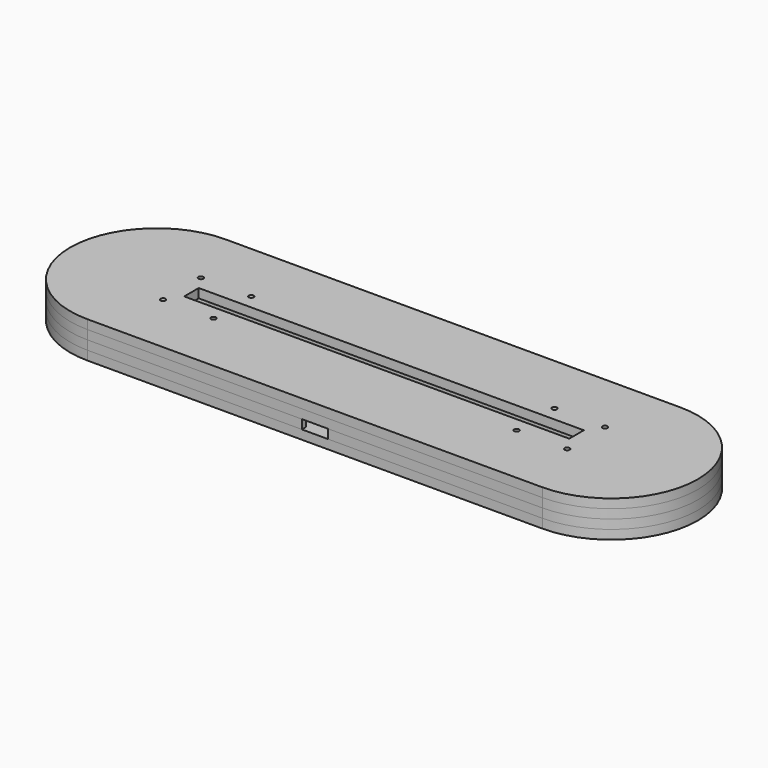
from build123d import *

# Parameters (mm, degrees)
BOX_BOTTOM_HALF_1_W     = 209
BOX_BOTTOM_HALF_1_H     = 59
BOX_BOTTOM_HALF_1_DEPTH = 4
BOX_BOTTOM_HALF_0_W     = 209
BOX_BOTTOM_HALF_0_H     = 59
BOX_BOTTOM_HALF_0_DEPTH = 7
PAD_DEPTH               = 6
POCKET_DEPTH            = 3
SKETCH002_W             = 18.4
SKETCH002_H             = 20.85
POCKET001_DEPTH         = 3
SKETCH003_W             = 8.55
SKETCH003_H             = 1.65
POCKET002_DEPTH         = 3
PAD001_DEPTH            = 3
SKETCH005_W             = 127
SKETCH005_H             = 6
PAD002_DEPTH            = 3
SKETCH006_R             = 0.825
POCKET003_DEPTH         = 442.080062
POLARPATTERN_COUNT      = 2
POLARPATTERN001_COUNT   = 2
POLARPATTERN002_COUNT   = 2
BOX_BOTTOM_HALF_2_W     = 209
BOX_BOTTOM_HALF_2_H     = 59
BOX_BOTTOM_HALF_2_DEPTH = 4


with BuildPart() as box_bottom_half_1_body:
    # box_bottom_half_1 → box_bottom_half_1 (new body)
    with BuildSketch(Plane(origin=(-104.5, -29.5, -1), x_dir=(1, 0, 0), z_dir=(0, 0, 1))):
        with Locations((104.5, 29.5)):
            Rectangle(BOX_BOTTOM_HALF_1_W, BOX_BOTTOM_HALF_1_H)
    extrude(amount=BOX_BOTTOM_HALF_1_DEPTH)


with BuildPart() as box_bottom_half_0_body:
    # box_bottom_half_0 → box_bottom_half_0 (new body)
    with BuildSketch(Plane(origin=(-104.5, -29.5, -1), x_dir=(1, 0, 0), z_dir=(0, 0, 1))):
        with Locations((104.5, 29.5)):
            Rectangle(BOX_BOTTOM_HALF_0_W, BOX_BOTTOM_HALF_0_H)
    extrude(amount=BOX_BOTTOM_HALF_0_DEPTH)


with BuildPart() as body:
    # Sketch → Pad (new body)
    with BuildSketch(Plane.XY):
        with BuildLine():
            ThreePointArc((-75, 28.5), (-103.5, 0), (-75, -28.5))
            Line((-75, -28.5), (75, -28.5))
            ThreePointArc((75, -28.5), (103.5, 0), (75, 28.5))
            Line((-75, 28.5), (75, 28.5))
        make_face()
    extrude(amount=PAD_DEPTH)

    # Sketch001 (on Face6 of Pad) → Pocket (cut)
    with BuildSketch(Plane.XY.offset(6)):
        with BuildLine():
            ThreePointArc((-62.5, 6), (-68.5, 0), (-62.5, -6))
            Line((-62.5, -6), (62.5, -6))
            ThreePointArc((62.5, -6), (68.5, 0), (62.5, 6))
            Line((-62.5, 6), (62.5, 6))
        make_face()
    extrude(amount=-POCKET_DEPTH, mode=Mode.SUBTRACT)

    # Sketch002 (on Face5 of Pocket) → Pocket001 (cut)
    with BuildSketch(Plane.XY.offset(6)):
        with Locations((0, -16.425)):
            Rectangle(SKETCH002_W, SKETCH002_H)
    extrude(amount=-POCKET001_DEPTH, mode=Mode.SUBTRACT)

    # Sketch003 (on Face5 of Pocket001) → Pocket002 (cut)
    with BuildSketch(Plane.XY.offset(6)):
        with Locations((0, -27.675)):
            Rectangle(SKETCH003_W, SKETCH003_H)
    extrude(amount=-POCKET002_DEPTH, mode=Mode.SUBTRACT)

    # Sketch004 (on Face5 of Pocket002) → Pad001 (join)
    with BuildSketch(Plane.XY.offset(6)):
        with BuildLine():
            ThreePointArc((-75, 28.5), (-103.5, 0), (-75, -28.5))
            Line((-75, -28.5), (75, -28.5))
            ThreePointArc((75, -28.5), (103.5, 0), (75, 28.5))
            Line((-75, 28.5), (75, 28.5))
        make_face()
        with BuildLine():
            ThreePointArc((-62.5, 6), (-68.5, 0), (-62.5, -6))
            Line((-62.5, -6), (62.5, -6))
            ThreePointArc((62.5, -6), (68.5, 0), (62.5, 6))
            Line((-62.5, 6), (62.5, 6))
        make_face(mode=Mode.SUBTRACT)
    extrude(amount=PAD001_DEPTH)

    # Sketch005 (on Face12 of Pad001) → Pad002 (join)
    with BuildSketch(Plane.XY.offset(9)):
        with BuildLine():
            ThreePointArc((-75, 28.5), (-103.5, 0), (-75, -28.5))
            Line((-75, -28.5), (75, -28.5))
            ThreePointArc((75, -28.5), (103.5, 0), (75, 28.5))
            Line((-75, 28.5), (75, 28.5))
        make_face()
        Rectangle(SKETCH005_W, SKETCH005_H, mode=Mode.SUBTRACT)
    extrude(amount=PAD002_DEPTH)

    # Sketch006 (on Face20 of Pad002) → Pocket003 (cut, through all)
    with BuildSketch(Plane.XY.offset(12)):
        with Locations((-66.64, -7.79)):
            Circle(SKETCH006_R)
        with Locations((-50, -7.79)):
            Circle(SKETCH006_R)
    pocket003 = extrude(amount=-POCKET003_DEPTH, mode=Mode.SUBTRACT)

    # PolarPattern: Pocket003 ×2 about axis
    polarpattern_axis = Axis((0, 0, 12), (0, 0, 1))
    for i in range(1, POLARPATTERN_COUNT):
        add(pocket003.rotate(polarpattern_axis, i * 360 / POLARPATTERN_COUNT), mode=Mode.SUBTRACT)

    # PolarPattern001: Pocket003 ×2 about axis
    polarpattern001_axis = Axis((0, 0, 0), (0, 1, 0))
    for i in range(1, POLARPATTERN001_COUNT):
        add(pocket003.rotate(polarpattern001_axis, i * 360 / POLARPATTERN001_COUNT), mode=Mode.SUBTRACT)

    # PolarPattern002: Pocket003 ×2 about axis
    polarpattern002_axis = Axis((0, 0, 0), (-1, 0, 0))
    for i in range(1, POLARPATTERN002_COUNT):
        add(pocket003.rotate(polarpattern002_axis, i * 360 / POLARPATTERN002_COUNT), mode=Mode.SUBTRACT)


with BuildPart() as bottom_half_0_body:
    # bottom_half_0 base: copy of Body
    add(body.part)

    # bottom_half_0: intersect box_bottom_half_0 body
    add(box_bottom_half_0_body.part, mode=Mode.INTERSECT)


with BuildPart() as bottom_half_1_body:
    # bottom_half_1 base: copy of bottom_half_0 body
    add(bottom_half_0_body.part)

    # bottom_half_1: intersect box_bottom_half_1 body
    add(box_bottom_half_1_body.part, mode=Mode.INTERSECT)


with BuildPart() as top_half_1_body:
    # top_half_1 base: copy of bottom_half_0 body
    add(bottom_half_0_body.part)

    # top_half_1: cut box_bottom_half_1 body
    add(box_bottom_half_1_body.part, mode=Mode.SUBTRACT)


with BuildPart() as box_bottom_half_2_body:
    # box_bottom_half_2 → box_bottom_half_2 (new body)
    with BuildSketch(Plane(origin=(-104.5, -29.5, 5), x_dir=(1, 0, 0), z_dir=(0, 0, 1))):
        with Locations((104.5, 29.5)):
            Rectangle(BOX_BOTTOM_HALF_2_W, BOX_BOTTOM_HALF_2_H)
    extrude(amount=BOX_BOTTOM_HALF_2_DEPTH)


with BuildPart() as top_half_0_body:
    # top_half_0 base: copy of Body
    add(body.part)

    # top_half_0: cut box_bottom_half_0 body
    add(box_bottom_half_0_body.part, mode=Mode.SUBTRACT)


with BuildPart() as bottom_half_2_body:
    # bottom_half_2 base: copy of top_half_0 body
    add(top_half_0_body.part)

    # bottom_half_2: intersect box_bottom_half_2 body
    add(box_bottom_half_2_body.part, mode=Mode.INTERSECT)


with BuildPart() as top_half_2_body:
    # top_half_2 base: copy of top_half_0 body
    add(top_half_0_body.part)

    # top_half_2: cut box_bottom_half_2 body
    add(box_bottom_half_2_body.part, mode=Mode.SUBTRACT)


solid = Compound([bottom_half_1_body.part, top_half_1_body.part, bottom_half_2_body.part, top_half_2_body.part])
